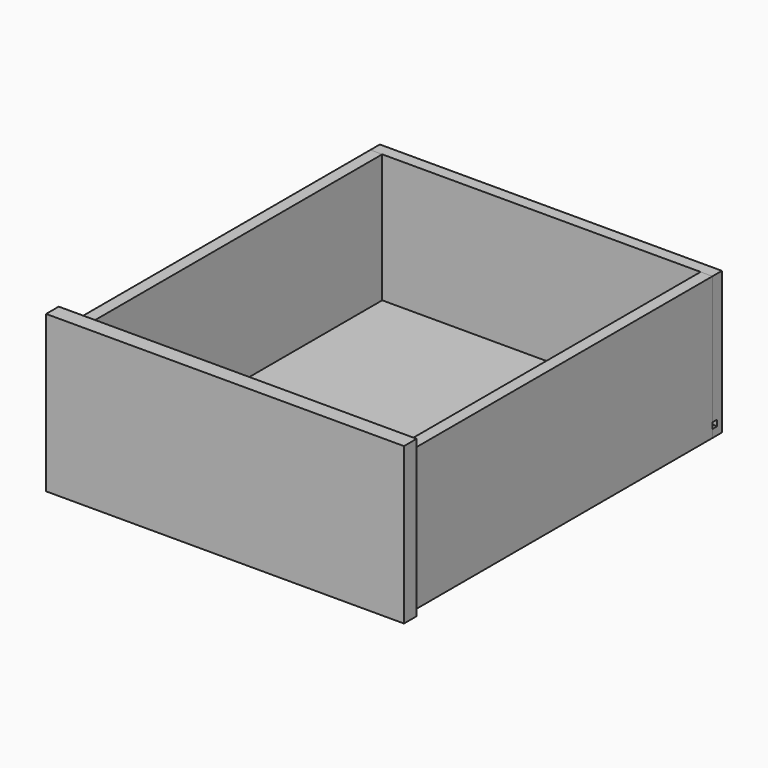
from build123d import *

# Parameters (mm, degrees)
F0_W      = 574.675
F0_H      = 250.825
F1_DEPTH  = 25.4
F3_DEPTH  = 609.6
F4_W      = 530.225
F4_H      = 9.525
F5_DEPTH  = 12.7
F6_W      = 523.875
F6_H      = 9.525
F7_DEPTH  = 628.65
F8_W      = 549.275
F8_H      = 228.6
F9_DEPTH  = 19.05
F10_W     = 9.525
F10_H     = 9.525
F11_DEPTH = 584.2


with BuildPart() as f1:
    # F0 (on Front) → F1 (new body)
    with BuildSketch(Plane.XZ):
        Rectangle(F0_W, F0_H)
    extrude(amount=F1_DEPTH)

    # F4 (on face) → F5 (cut)
    with BuildSketch(Plane(origin=(0, 0, 0), x_dir=(-1, 0, 0), z_dir=(0, 1, 0))):
        with Locations((0, -107.95)):
            Rectangle(F4_W, F4_H)
    extrude(amount=-F5_DEPTH, mode=Mode.SUBTRACT)


with BuildPart() as f3:
    # F2 (on face) → F3 (new body)
    with BuildSketch(Plane(origin=(0, 0, 0), x_dir=(-1, 0, 0), z_dir=(0, 1, 0))):
        Polygon((-255.5875, 103.1875), (-274.6375, 103.1875), (-274.6375, -125.4125), (-255.5875, -125.4125), (-255.5875, -112.7125), (-265.1125, -112.7125), (-265.1125, -103.1875), (-255.5875, -103.1875), align=None)
    extrude(amount=F3_DEPTH)


with BuildPart() as f3b:
    # F2 (on face) → F3, piece 2 (new body)
    with BuildSketch(Plane(origin=(0, 0, 0), x_dir=(-1, 0, 0), z_dir=(0, 1, 0))):
        Polygon((274.6375, -125.4125), (274.6375, 103.1875), (255.5875, 103.1875), (255.5875, -103.1875), (265.1125, -103.1875), (265.1125, -112.7125), (255.5875, -112.7125), (255.5875, -125.4125), align=None)
    extrude(amount=F3_DEPTH)


with BuildPart() as f7:
    # F6 (on face) → F7 (new body)
    with BuildSketch(Plane(origin=(0, -12.7, 0), x_dir=(-1, 0, 0), z_dir=(0, 1, 0))):
        with Locations((0, -107.95)):
            Rectangle(F6_W, F6_H)
    extrude(amount=F7_DEPTH)


with BuildPart() as f9:
    # F8 (on face) → F9 (new body)
    with BuildSketch(Plane(origin=(0, 609.6, 0), x_dir=(-1, 0, 0), z_dir=(0, 1, 0))):
        with Locations((0, -11.1125)):
            Rectangle(F8_W, F8_H)
    extrude(amount=F9_DEPTH)

    # F10 (on face) → F11 (cut)
    with BuildSketch(Plane.YZ.offset(274.6375)):
        with Locations((614.3625, -107.95)):
            Rectangle(F10_W, F10_H)
    extrude(amount=-F11_DEPTH, mode=Mode.SUBTRACT)


solid = Compound([f1.part, f3.part, f3b.part, f7.part, f9.part])
